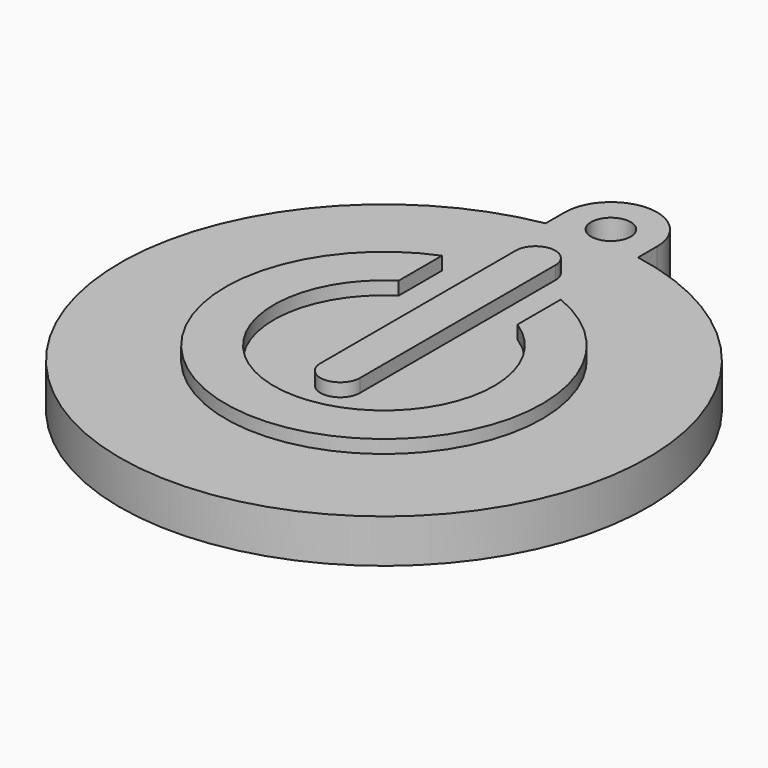
from build123d import *

# Parameters (mm, degrees)
EXTRUDE_DEPTH = 3.3
SKETCH001_R   = 1.5
POCKET_DEPTH  = 3.301
PAD_DEPTH     = 1


with BuildPart() as part:
    # Sketch → Extrude (new body)
    with BuildSketch(Plane.XY):
        with BuildLine():
            ThreePointArc((3.5, 21.5), (0, 25), (-3.5, 21.5))
            Line((-3.5, 21.5), (-3.5, 19.691369))
            ThreePointArc((-3.5, 19.691369), (0, -20), (3.5, 19.691369))
            Line((3.5, 19.691369), (3.5, 21.5))
        make_face()
    extrude(amount=EXTRUDE_DEPTH)

    # Sketch001 → Pocket (cut, through all)
    with BuildSketch(Plane.XY.offset(3.3)):
        with Locations((0, 21.5)):
            Circle(SKETCH001_R)
    extrude(amount=-POCKET_DEPTH, mode=Mode.SUBTRACT)

    # Sketch002 → Pad (new body)
    with BuildSketch(Plane.XY.offset(3.3)):
        with BuildLine():
            ThreePointArc((-4.5, 7.022984), (0, -8.341002), (4.5, 7.022984))
            Line((4.5, 11.124298), (4.5, 7.022984))
            ThreePointArc((-4.5, 11.124298), (0, -12), (4.5, 11.124298))
            Line((-4.5, 7.022984), (-4.5, 11.124298))
        make_face()
        with BuildLine():
            ThreePointArc((1.5, 14.356668), (0, 15.856668), (-1.5, 14.356668))
            Line((-1.5, 14.356668), (-1.5, -4.143332))
            ThreePointArc((-1.5, -4.143332), (0, -5.643332), (1.5, -4.143332))
            Line((1.5, 14.356668), (1.5, -4.143332))
        make_face()
    extrude(amount=PAD_DEPTH)


solid = part.part
